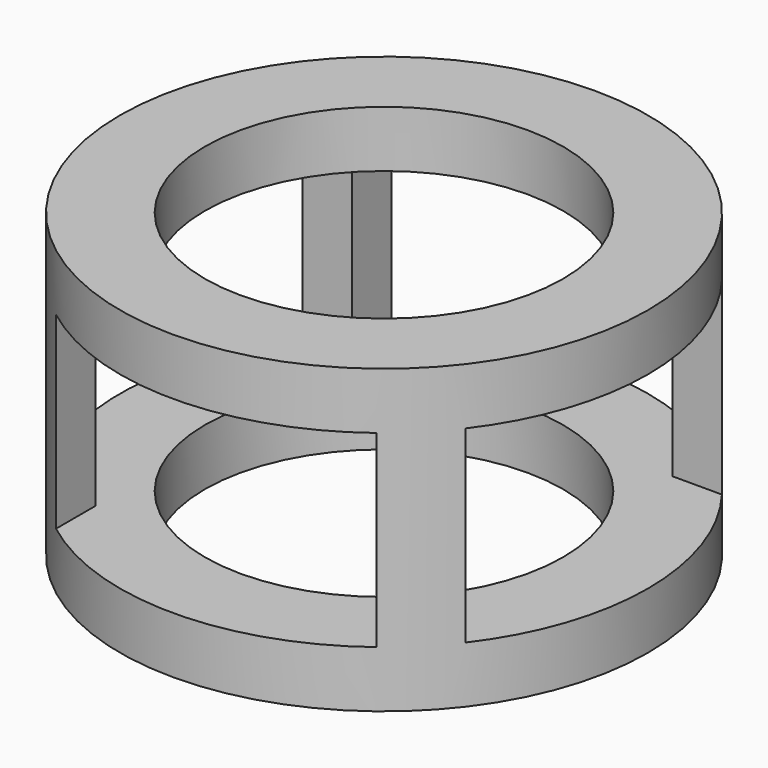
from build123d import *

# Parameters (mm, degrees)
F0_R     = 88.9
F1_DEPTH = 50.8
F2_R     = 60.325
F3_DEPTH = 52.07
F4_W     = 107.95
F4_H     = 63.5
F5_DEPTH = 101.6
F6_W     = 107.95
F6_H     = 63.5
F7_DEPTH = 101.6


with BuildPart() as f1:
    # F0 (on Top) → F1 (new body, symmetric)
    with BuildSketch(Plane.XY):
        Circle(F0_R)
    extrude(amount=F1_DEPTH, both=True)

    # F2 (on Top) → F3 (cut, symmetric)
    with BuildSketch(Plane.XY):
        Circle(F2_R)
    extrude(amount=F3_DEPTH, both=True, mode=Mode.SUBTRACT)

    # F4 (on Front) → F5 (cut, symmetric)
    with BuildSketch(Plane.XZ):
        Rectangle(F4_W, F4_H)
    extrude(amount=F5_DEPTH, both=True, mode=Mode.SUBTRACT)

    # F6 (on Right) → F7 (cut, symmetric)
    with BuildSketch(Plane.YZ):
        Rectangle(F6_W, F6_H)
    extrude(amount=F7_DEPTH, both=True, mode=Mode.SUBTRACT)


solid = f1.part
